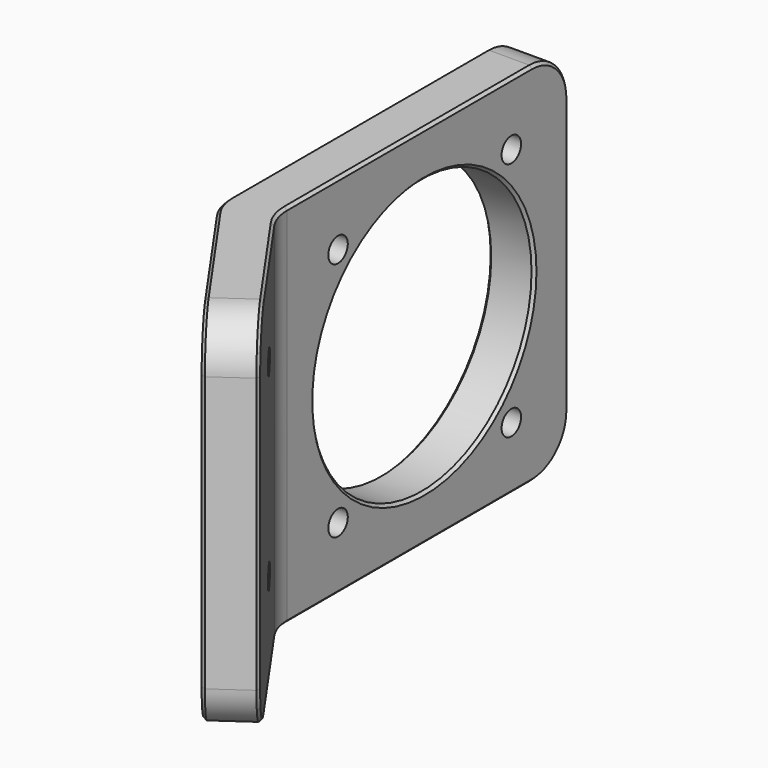
from build123d import *

# Parameters (mm, degrees)
F1_DEPTH = 50.8
F3_D     = 6.7564
F4_R     = 38.1
F5_DEPTH = 13.462
F6_R     = 12.7
F7_R     = 12.7
F8_SIZE  = 0.762
F10_D    = 6.5278


with BuildPart() as f1:
    # F0 (on Top) → F1 (new body, symmetric)
    with BuildSketch(Plane.XY):
        Polygon((0, -42.8148043404), (0, 58.7851956596), (-12.7, 58.7851956596), (-12.7, -46.8190989592), (19.8412804977, -93.2928638389), (30.2445114602, -86.0084430972), (29.1376829666, -84.4277281903), align=None)
    extrude(amount=F1_DEPTH, both=True)

    # F3 (through all)
    with Locations(Plane.YZ):
        with Locations((38.9459957701, 33.3375), (38.9459957701, -33.3375), (-21.1250042299, -33.3375), (-21.1250042299, 33.3375)):
            Hole(F3_D / 2)

    # F4 (on face) → F5 (cut)
    with BuildSketch(Plane.YZ):
        with Locations((8.7980022654, 0)):
            Circle(F4_R)
    extrude(amount=-F5_DEPTH, mode=Mode.SUBTRACT)

    # F6
    f6_edges = [f1.edges().sort_by_distance(p)[0] for p in [
        (-6.35, 58.785196, -50.8),
        (-6.35, 58.785196, 50.8),
        (25.042896, -89.650653, 50.8),
        (25.042896, -89.650653, -50.8),
    ]]
    fillet(f6_edges, radius=F6_R)

    # F7
    f7_edges = [f1.edges().sort_by_distance(p)[0] for p in [
        (0, -42.814804, 0),
        (-12.7, -46.819099, 0),
    ]]
    fillet(f7_edges, radius=F7_R)

    # F8
    f8_edges = [f1.edges().sort_by_distance(p)[0] for p in [
        (0, -29.301998, 0),
        (-12.7, -29.301998, 0),
        (0, 58.785196, 0),
        (0, 55.065452, -47.080256),
        (0, 3.637343, -50.8),
        (0.587795, -42.629473, -50.8),
        (28.110954, -82.961407, -47.080256),
        (12.62843, -60.850071, -50.8),
        (30.244511, -86.008443, 0),
        (28.110954, -82.961407, 47.080256),
        (12.62843, -60.850071, 50.8),
        (-12.7, 55.065452, 47.080256),
        (-12.7, 1.635196, 50.8),
        (-12.7, 58.785196, 0),
    ]]
    chamfer(f8_edges, length=F8_SIZE)

    # F10 (through all)
    with Locations(Plane(origin=(-20.1163778496, -14.0856394117, 0), x_dir=(-0.5735764364, 0.8191520443, 0), z_dir=(0.8191520443, 0.5735764364, 0))):
        with Locations((-57.15, -26.19375), (-57.15, 26.19375)):
            Hole(F10_D / 2)


solid = f1.part
